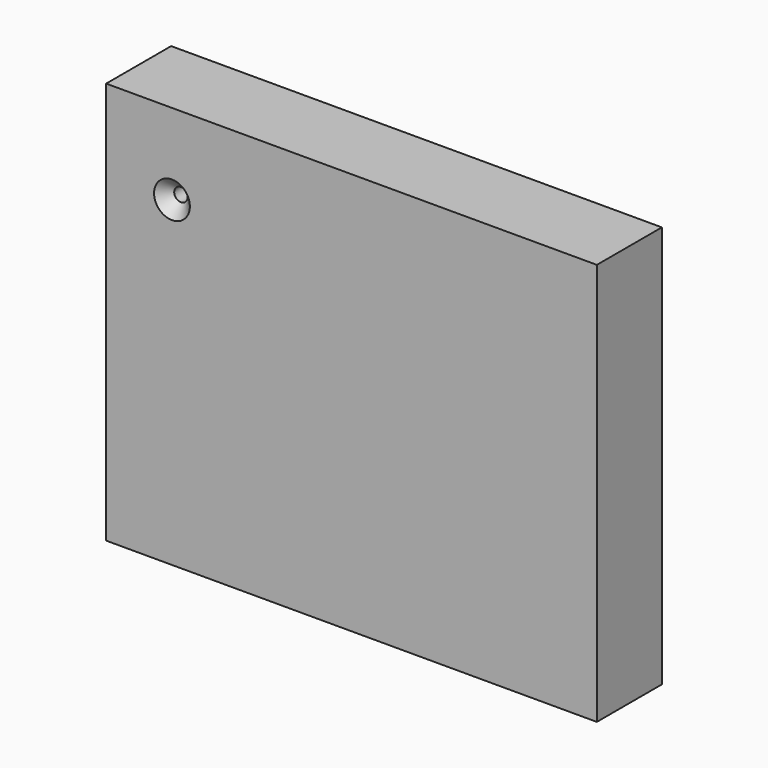
from build123d import *

# Parameters (mm, degrees)
F0_W           = 60.1383596659
F0_H           = 68.6342282385
F0_H_2         = 6.35
F1_DEPTH       = 25.4
F3_D           = 4.2
F3_DEPTH       = 15.0876
F3_CSINK_D     = 11.2
F3_CSINK_ANGLE = 90
F3_TIP         = 1.2618073


with BuildPart() as f1:
    # F0 (on Front) → F1 (new body)
    with BuildSketch(Plane.XZ):
        with Locations((-62.9316493869, 16.3910637692)):
            Rectangle(F0_W, F0_H)
        Polygon((60.4449808598, -68.7655881047), (60.4449808598, 57.0581778884), (-32.8624695539, 57.0581778884), (-32.8624695539, 50.7081778884), (-32.8624695539, -17.9260503501), (-93.0008292198, -17.9260503501), (-93.0008292198, -68.7655881047), align=None)
        with Locations((-62.9316493869, 53.8831778884)):
            Rectangle(F0_W, F0_H_2)
    extrude(amount=F1_DEPTH)

    # F3
    with Locations(Plane.XZ.offset(25.4)):
        with Locations((-72.4211484194, 31.7595601082)):
            CounterSinkHole(F3_D / 2, F3_CSINK_D / 2, depth=F3_DEPTH, counter_sink_angle=F3_CSINK_ANGLE)
            with Locations((0, 0, -(F3_DEPTH + F3_TIP / 2))):  # 118° drill point
                Cone(0, F3_D / 2, F3_TIP, mode=Mode.SUBTRACT)


solid = f1.part
